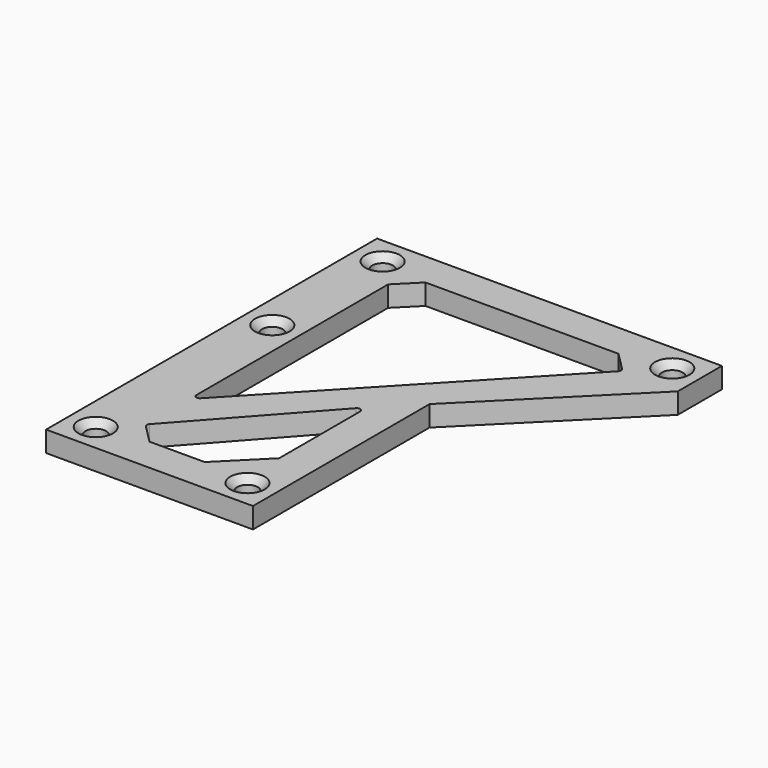
from build123d import *

# Parameters (mm, degrees)
PAD_DEPTH    = 3
SKETCH001_R  = 1.5
POCKET_DEPTH = 5
FILLET_R     = 0.5
FILLET001_R  = 0.5
CHAMFER_SIZE = 1


with BuildPart() as part:
    # Sketch → Pad (new body)
    with BuildSketch(Plane.XY):
        Polygon((0, 0), (0, -60), (8, -60), (30, -60), (30, -28), (50, -8), (50, 0), align=None)
        Polygon((8, -8), (11, -5), (39, -5), (42, -8), (8, -44), align=None, mode=Mode.SUBTRACT)
        Polygon((8, -52), (25, -33), (25, -49), (19, -55), (11, -55), align=None, mode=Mode.SUBTRACT)
    extrude(amount=PAD_DEPTH)

    # Sketch001 (on Face19 of Pad) → Pocket (cut)
    with BuildSketch(Plane.XY.offset(3)):
        with Locations((4, -4)):
            Circle(SKETCH001_R)
        with Locations((46, -4)):
            Circle(SKETCH001_R)
        with Locations((4, -24)):
            Circle(SKETCH001_R)
        with Locations((4, -56)):
            Circle(SKETCH001_R)
        with Locations((26, -56)):
            Circle(SKETCH001_R)
    extrude(amount=-POCKET_DEPTH, mode=Mode.SUBTRACT)

    # Fillet
    fillet_edges = [part.edges().sort_by_distance(p)[0] for p in [
        (8, -44, 1.5),
        (25, -33, 1.5),
    ]]
    fillet(fillet_edges, radius=FILLET_R)

    # Fillet001
    fillet001_edges = [part.edges().sort_by_distance(p)[0] for p in [
        (8, -52, 1.5),
        (42, -8, 1.5),
    ]]
    fillet(fillet001_edges, radius=FILLET001_R)

    # Chamfer
    chamfer_edges = [part.edges().sort_by_distance(p)[0] for p in [
        (2.5, -4, 3),
        (2.5, -24, 3),
        (2.5, -56, 3),
        (24.5, -56, 3),
        (44.5, -4, 3),
    ]]
    chamfer(chamfer_edges, length=CHAMFER_SIZE)


solid = part.part
